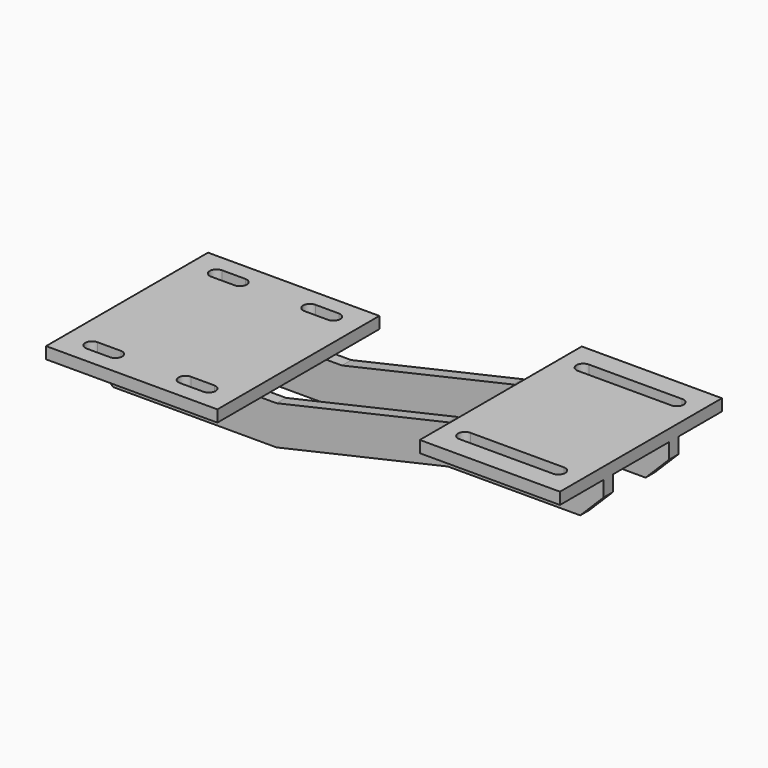
from build123d import *

# Parameters (mm, degrees)
F0_W     = 139.7
F0_H     = 165.1
F1_DEPTH = 9.525
F3_W     = 114.3
F3_H     = 165.1
F4_DEPTH = 9.525
F7_DEPTH = 9.525
F9_SIZE  = 19.05


with BuildPart() as f1:
    # F0 (on Top) → F1 (new body)
    with BuildSketch(Plane.XY):
        Rectangle(F0_W, F0_H)
        with BuildLine():
            ThreePointArc((-47.625, -69.088), (-53.213, -63.5), (-47.625, -57.912))
            Line((-47.625, -57.912), (-28.575, -57.912))
            ThreePointArc((-28.575, -57.912), (-22.987, -63.5), (-28.575, -69.088))
            Line((-28.575, -69.088), (-47.625, -69.088))
        make_face(mode=Mode.SUBTRACT)
        with BuildLine():
            Line((28.575, -57.912), (47.625, -57.912))
            ThreePointArc((47.625, -57.912), (53.213, -63.5), (47.625, -69.088))
            Line((47.625, -69.088), (28.575, -69.088))
            ThreePointArc((28.575, -69.088), (22.987, -63.5), (28.575, -57.912))
        make_face(mode=Mode.SUBTRACT)
        with BuildLine():
            Line((-28.575, 57.912), (-47.625, 57.912))
            ThreePointArc((-47.625, 57.912), (-53.213, 63.5), (-47.625, 69.088))
            Line((-47.625, 69.088), (-28.575, 69.088))
            ThreePointArc((-28.575, 69.088), (-22.987, 63.5), (-28.575, 57.912))
        make_face(mode=Mode.SUBTRACT)
        with BuildLine():
            ThreePointArc((47.625, 69.088), (53.213, 63.5), (47.625, 57.912))
            Line((47.625, 57.912), (28.575, 57.912))
            ThreePointArc((28.575, 57.912), (22.987, 63.5), (28.575, 69.088))
            Line((28.575, 69.088), (47.625, 69.088))
        make_face(mode=Mode.SUBTRACT)
    extrude(amount=-F1_DEPTH)



with BuildPart() as f4:
    # F3 (on offset) → F4 (new body)
    with BuildSketch(Plane.XY.offset(31.75)):
        with Locations((292.1, 0)):
            Rectangle(F3_W, F3_H)
        with BuildLine():
            ThreePointArc((254, -65.913), (248.412, -60.325), (254, -54.737))
            Line((254, -54.737), (330.2, -54.737))
            ThreePointArc((330.2, -54.737), (335.788, -60.325), (330.2, -65.913))
            Line((330.2, -65.913), (254, -65.913))
        make_face(mode=Mode.SUBTRACT)
        with BuildLine():
            Line((330.2, 54.737), (254, 54.737))
            ThreePointArc((254, 54.737), (248.412, 60.325), (254, 65.913))
            Line((254, 65.913), (330.2, 65.913))
            ThreePointArc((330.2, 65.913), (335.788, 60.325), (330.2, 54.737))
        make_face(mode=Mode.SUBTRACT)
    extrude(amount=-F4_DEPTH)


with BuildPart() as f1_1:
    add(f1.part)

    add(f4.part)  # F7 merges F4
    # F6 (on offset) → F7 (join)
    with BuildSketch(Plane.XZ.offset(38.1)):
        Polygon((69.85, -9.525), (-69.85, -9.525), (-69.85, -41.275), (82.55, -41.275), (222.25, -9.525), (349.25, -9.525), (349.25, 22.225), (234.95, 22.225), (222.25, 22.225), (82.55, -9.525), align=None)
    extrude(amount=-F7_DEPTH)

    # F8: F1 across plane


with BuildPart() as f1_2:
    add(f1_1.part)
    add(f1_1.part.mirror(Plane.XZ))

    # F9
    f9_edges = [f1_2.edges().sort_by_distance(p)[0] for p in [
        (-69.85, -33.3375, -41.275),
        (-69.85, 33.3375, -41.275),
        (349.25, -33.3375, -9.525),
        (349.25, 33.3375, -9.525),
    ]]
    chamfer(f9_edges, length=F9_SIZE)


solid = f1_2.part
